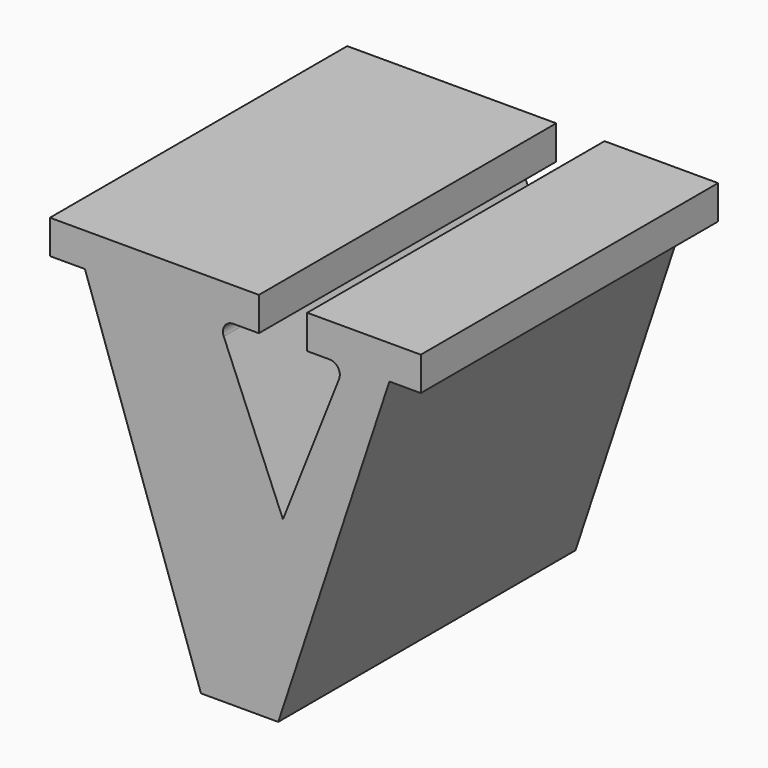
from build123d import *

# Parameters (mm, degrees)
F1_DEPTH = 1828.8


with BuildPart() as f1:
    # F0 (on Front) → F1 (new body)
    with BuildSketch(Plane.XZ):
        with BuildLine():
            Line((-931.034207, 922.515988), (-931.034207, 756.055593))
            Line((-931.034207, 756.055593), (-758.628726, 756.055593))
            Line((-758.628726, 756.055593), (-187.907308, -896.658719))
            Line((-187.907308, -896.658719), (192.573652, -896.658719))
            Line((192.573652, -896.658719), (739.515007, 756.055593))
            Line((739.515007, 756.055593), (894.085407, 756.055593))
            Line((894.085407, 756.055593), (894.085407, 922.515988))
            Line((894.085407, 922.515988), (335.254014, 922.515988))
            Line((335.254014, 922.515988), (335.254014, 756.055593))
            Line((335.254014, 756.055593), (444.818713, 756.055593))
            ThreePointArc((444.818713, 756.055593), (486.831015, 733.814419), (492.0558, 686.566087))
            Line((492.0558, 686.566087), (215.779419, -11.712988))
            Line((215.779419, -11.712988), (-75.530027, 685.887105))
            ThreePointArc((-75.530027, 685.887105), (-70.932277, 733.624544), (-28.653067, 756.262362))
            Line((-28.653067, 756.262362), (97.453408, 756.262362))
            Line((97.453408, 756.262362), (97.453408, 922.515988))
            Line((97.453408, 922.515988), (-931.034207, 922.515988))
        make_face()
    extrude(amount=F1_DEPTH)


solid = f1.part
